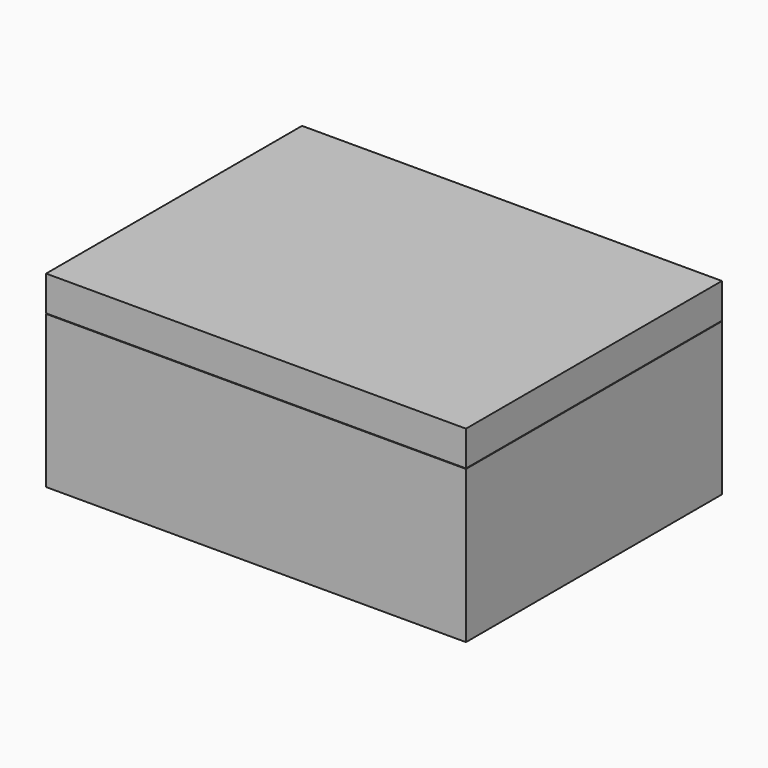
from build123d import *

# Parameters (mm, degrees)
F0_W      = 84
F0_H      = 64
F1_DEPTH  = 2
F2_W      = 84
F2_H      = 64
F2_W_2    = 80
F2_H_2    = 60
F3_DEPTH  = 28.5
F4_W      = 81.4
F4_H      = 61.4
F4_W_2    = 80
F4_H_2    = 60
F5_DEPTH  = 5
F7_W      = 84
F7_H      = 64
F8_DEPTH  = 2
F9_W      = 84
F9_H      = 64
F9_W_2    = 82.6
F9_H_2    = 62.6
F10_DEPTH = 5


with BuildPart() as f1:
    # F0 (on Top) → F1 (new body)
    with BuildSketch(Plane.XY):
        Rectangle(F0_W, F0_H)
    extrude(amount=F1_DEPTH)

    # F2 (on face) → F3 (join)
    with BuildSketch(Plane.XY.offset(2)):
        Rectangle(F2_W, F2_H)
        Rectangle(F2_W_2, F2_H_2, mode=Mode.SUBTRACT)
    extrude(amount=F3_DEPTH)

    # F4 (on face) → F5 (join)
    with BuildSketch(Plane.XY.offset(30.5)):
        Rectangle(F4_W, F4_H)
        Rectangle(F4_W_2, F4_H_2, mode=Mode.SUBTRACT)
    extrude(amount=F5_DEPTH)


with BuildPart() as f8:
    # F7 (on offset) → F8 (new body)
    with BuildSketch(Plane.XY.offset(35.6)):
        Rectangle(F7_W, F7_H)
    extrude(amount=F8_DEPTH)

    # F9 (on face) → F10 (join)
    with BuildSketch(Plane(origin=(0, 0, 35.6), x_dir=(1, 0, 0), z_dir=(0, 0, -1))):
        Rectangle(F9_W, F9_H)
        Rectangle(F9_W_2, F9_H_2, mode=Mode.SUBTRACT)
    extrude(amount=F10_DEPTH)


solid = Compound([f1.part, f8.part])
